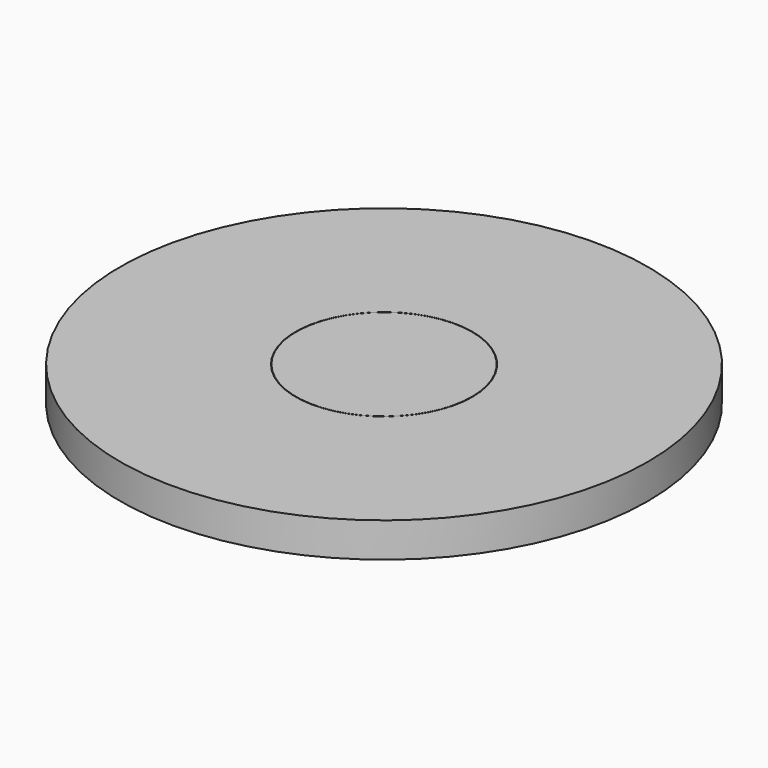
from build123d import *

# Parameters (mm, degrees)
F0_R     = 19.05
F1_DEPTH = 2.5
F2_R     = 6.375
F2_R_2   = 6.35
F3_DEPTH = 0.5


with BuildPart() as f1:
    # F0 (on Top) → F1 (new body)
    with BuildSketch(Plane.XY):
        Circle(F0_R)
    extrude(amount=F1_DEPTH)

    # F2 (on face) → F3 (cut)
    with BuildSketch(Plane.XY.offset(2.5)):
        Circle(F2_R)
        Circle(F2_R_2, mode=Mode.SUBTRACT)
    extrude(amount=-F3_DEPTH, mode=Mode.SUBTRACT)

    # F4 (on Front) → F5 (revolve)
    with BuildSketch(Plane.XZ):
        Polygon((0, -0.5), (0, 0), (-19.05, 0), (-17, -0.5), align=None)
    revolve(axis=Axis((0, 0, -0.25), (0, 0, -1)))


solid = f1.part
